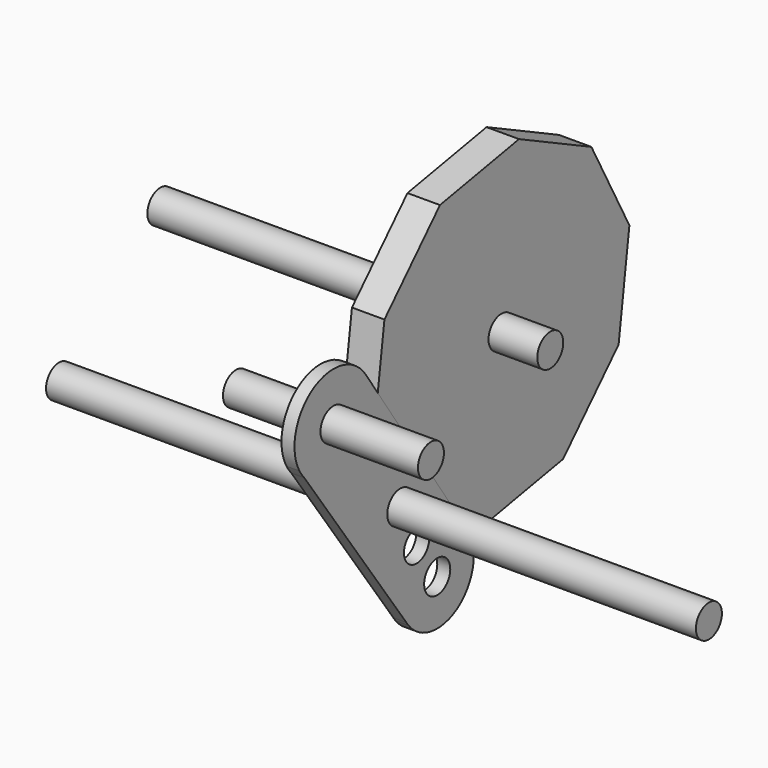
from build123d import *

# Parameters (mm, degrees)
F0_R     = 6.35
F1_DEPTH = 127
F3_R     = 6.35
F4_DEPTH = 6.35
F5_DEPTH = 25.4
F6_DEPTH = 127
F7_R     = 6.379813
F7_R_2   = 6.35
F8_DEPTH = 5.08
F9_DEPTH = 38.1


with BuildPart() as f1:
    # F0 (on Right) → F1 (new body, symmetric)
    with BuildSketch(Plane.YZ):
        Circle(F0_R)
    extrude(amount=F1_DEPTH, both=True)


with BuildPart() as f4:
    # F3 (on face) → F4 (new body, symmetric)
    with BuildSketch(Plane.YZ):
        Polygon((-7.721509, 67.623428), (-13.004192, 28.735438), (5.579814, -5.830689), (40.932051, -22.871869), (79.549165, -15.878949), (106.680732, 12.477012), (111.963415, 51.365001), (93.379409, 85.931128), (58.027172, 102.972308), (19.410057, 95.979389), align=None)
        with Locations((49.479611, 40.05022)):
            Circle(F3_R, mode=Mode.SUBTRACT)
    extrude(amount=F4_DEPTH, both=True)

    # F3 (on face) → F5 (join)
    with BuildSketch(Plane.YZ):
        with Locations((49.479611, 40.05022)):
            Circle(F3_R)
    extrude(amount=F5_DEPTH)

    # F3 (on face) → F6 (join)
    with BuildSketch(Plane.YZ):
        with Locations((49.479611, 40.05022)):
            Circle(F3_R)
    extrude(amount=-F6_DEPTH)


with BuildPart() as f8:
    # F7 (on face) → F8 (new body)
    with BuildSketch(Plane.YZ.offset(6.35)):
        with BuildLine():
            ThreePointArc((4.025923, -42.419214), (23.930694, -48.225583), (35.947851, -31.328785))
            ThreePointArc((35.947851, -31.328785), (35.166007, -26.098183), (32.888821, -21.324829))
            ThreePointArc((32.888821, -21.324829), (24.411281, -14.606692), (13.611369, -14.003391))
            ThreePointArc((13.611369, -14.003391), (14.020909, -15.245362), (14.159497, -16.54575))
            ThreePointArc((14.159497, -16.54575), (10.310534, -22.262626), (3.565658, -20.847055))
            ThreePointArc((3.565658, -20.847055), (0.180255, -30.814046), (2.98666, -40.959289))
            Line((2.98666, -40.959289), (4.025923, -42.419214))
        make_face()
        with Locations((18.060349, -31.328785)):
            Circle(F7_R, mode=Mode.SUBTRACT)
        with BuildLine():
            ThreePointArc((13.611369, -14.003391), (24.411281, -14.606692), (32.888821, -21.324829))
            Line((32.888821, -21.324829), (-16.693883, 52.169673))
            ThreePointArc((-16.693883, 52.169673), (-14.365494, 47.169757), (-13.567054, 41.712373))
            ThreePointArc((-13.567054, 41.712373), (-25.845165, 23.906643), (-46.852516, 29.053221))
            Line((-46.852516, 29.053221), (2.98666, -40.959289))
            ThreePointArc((2.98666, -40.959289), (0.180255, -30.814046), (3.565658, -20.847055))
            ThreePointArc((3.565658, -20.847055), (4.515481, -11.446481), (13.611369, -14.003391))
        make_face()
        with BuildLine():
            ThreePointArc((2.98666, -40.959289), (3.487997, -41.702274), (4.025923, -42.419214))
            Line((4.025923, -42.419214), (2.98666, -40.959289))
        make_face()
        with BuildLine():
            Line((-16.958326, 52.561646), (-16.693883, 52.169673))
            ThreePointArc((-16.693883, 52.169673), (-16.824889, 52.36648), (-16.958326, 52.561646))
        make_face()
        with BuildLine():
            ThreePointArc((-13.567054, 41.712373), (-14.365494, 47.169757), (-16.693883, 52.169673))
            Line((-16.693883, 52.169673), (-16.958326, 52.561646))
            ThreePointArc((-16.958326, 52.561646), (-42.706648, 57.871043), (-49.23884, 32.405454))
            Line((-49.23884, 32.405454), (-46.852516, 29.053221))
            ThreePointArc((-46.852516, 29.053221), (-25.845165, 23.906643), (-13.567054, 41.712373))
        make_face()
        with Locations((-32.617054, 41.712373)):
            Circle(F7_R_2, mode=Mode.SUBTRACT)
        with BuildLine():
            ThreePointArc((-49.23884, 32.405454), (-48.136455, 30.664717), (-46.852516, 29.053221))
            Line((-46.852516, 29.053221), (-49.23884, 32.405454))
        make_face()
    extrude(amount=-F8_DEPTH)

    # F7 (on face) → F9 (join, symmetric)
    with BuildSketch(Plane.YZ.offset(6.35)):
        with Locations((-32.617054, 41.712373)):
            Circle(F7_R_2)
    extrude(amount=F9_DEPTH, both=True)


solid = Compound([f1.part, f4.part, f8.part])
